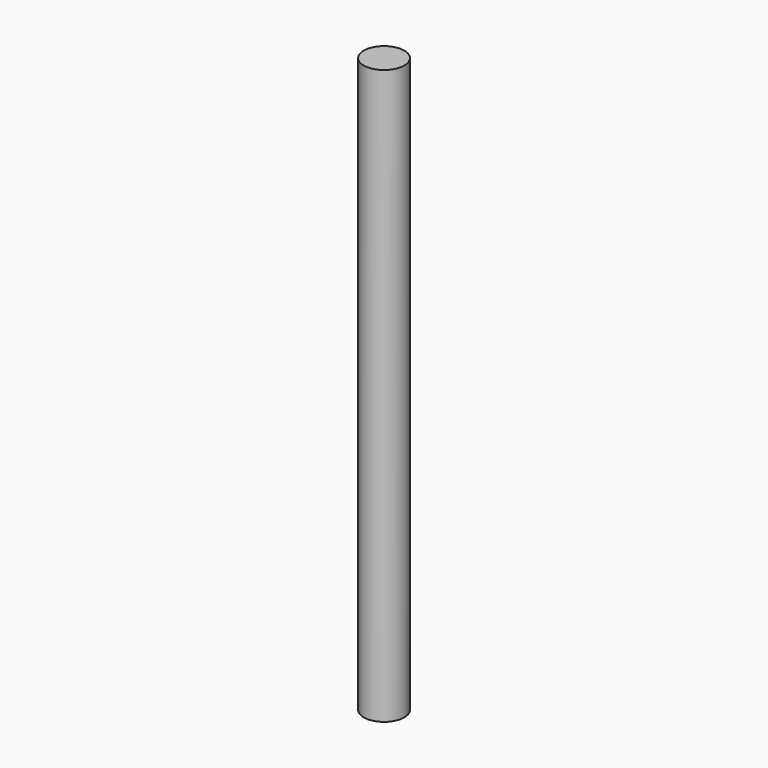
from build123d import *

# Parameters (mm, degrees)
F0_R = 6


with BuildPart() as f2:
    # F2: sweep along a path in F1
    with BuildLine(Plane.YZ) as f2_path:
        Line((0, 0), (0, 170))
    # F0 (on Top) → F2 (sweep)
    with BuildSketch(Plane.XY):
        Circle(F0_R)
    sweep(path=f2_path.line)


solid = f2.part
